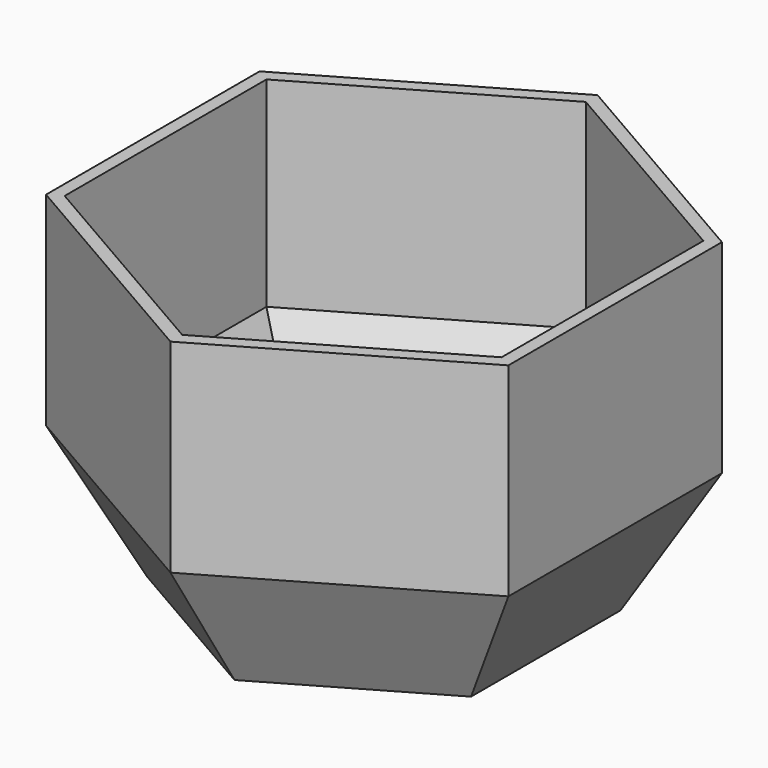
from build123d import *

# Parameters (mm, degrees)
F6_DEPTH = 40
F7_T     = -2.5


with BuildPart() as f5:
    # F2 (on Top) → F5 section 0
    with BuildSketch(Plane.XY):
        Polygon((-31.8264335891, -18.375), (0, -36.75), (31.8264335891, -18.375), (31.8264335891, 18.375), (0, 36.75), (-31.8264335891, 18.375), align=None)
    # F4 (on offset) → F5 section 1
    with BuildSketch(Plane.XY.offset(25)):
        Polygon((-45.4663336987, -26.25), (0, -52.5), (45.4663336987, -26.25), (45.4663336987, 26.25), (0, 52.5), (-45.4663336987, 26.25), align=None)
    loft()

    # F6 (add): a face of the model
    f6_faces = [f5.faces().sort_by_distance(p)[0] for p in [
        (0, 0, 25),
    ]]
    extrude(f6_faces, amount=F6_DEPTH)

    # F7
    f7_openings = [f5.faces().sort_by_distance(p)[0] for p in [
        (0, 0, 65),
    ]]
    offset(amount=F7_T, openings=f7_openings, kind=Kind.INTERSECTION)


solid = f5.part
